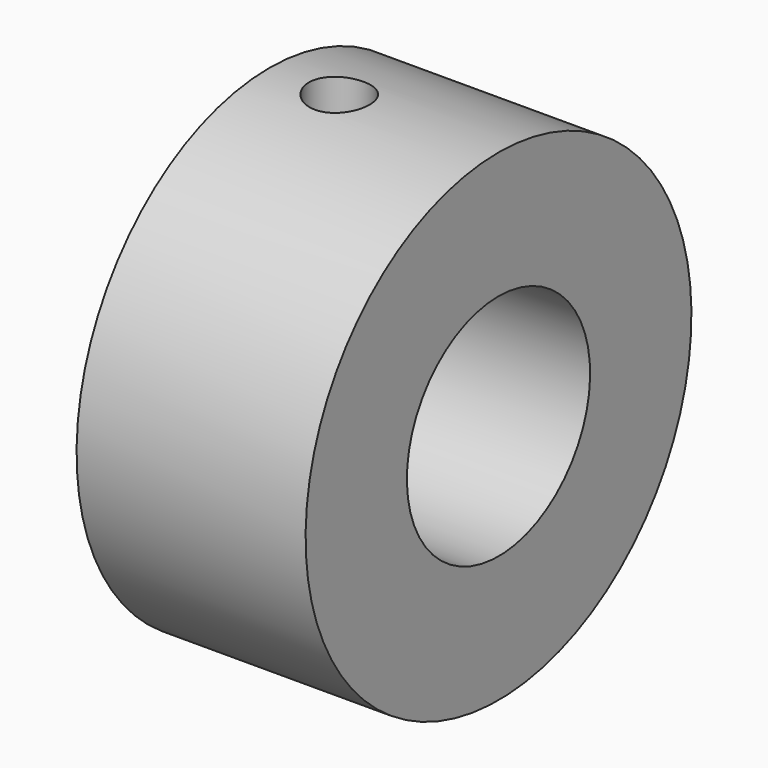
from build123d import *

# Parameters (mm, degrees)
F0_W     = 15.1
F0_H     = 8.35
F2_R     = 2
F3_DEPTH = 25


with BuildPart() as f1:
    # F0 (on Front) → F1 (revolve)
    with BuildSketch(Plane.XZ):
        with Locations((-7.55, 11.725)):
            Rectangle(F0_W, F0_H)
    revolve(axis=Axis((-0.227637, 0, 0), (1, 0, 0)))

    # F2 (on Top) → F3 (cut)
    with BuildSketch(Plane.XY):
        with Locations((-10.5, 0)):
            Circle(F2_R)
    extrude(amount=F3_DEPTH, mode=Mode.SUBTRACT)


solid = f1.part
